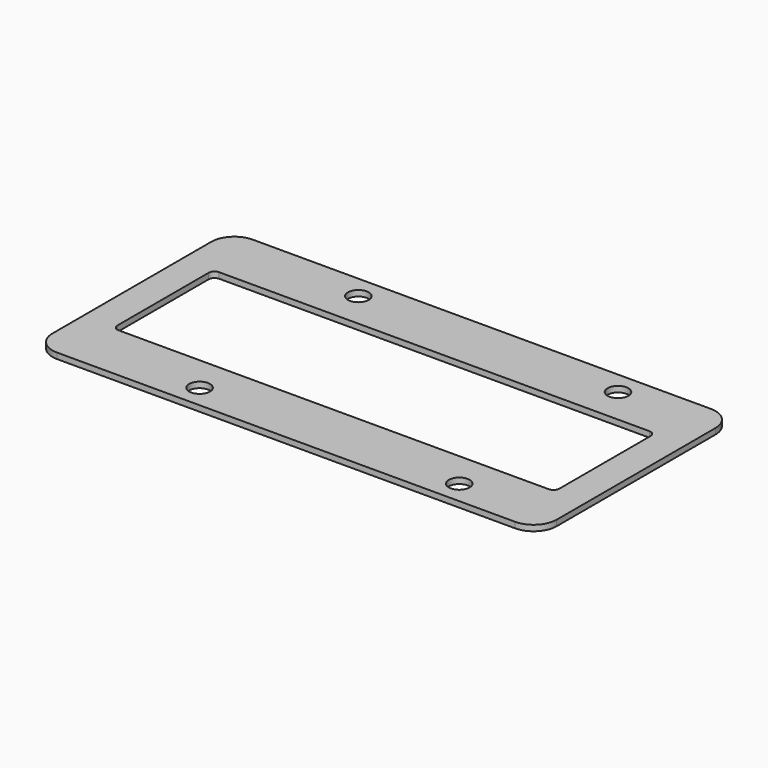
from build123d import *

# Parameters (mm, degrees)
SKETCH_W    = 87.4
SKETCH_H    = 42.4
SKETCH_R    = 1.8
SKETCH_W_2  = 76.6
SKETCH_H_2  = 21.8
PAD_DEPTH   = 1
FILLET_R    = 4
FILLET001_R = 1


with BuildPart() as part:
    # Sketch → Pad (new body)
    with BuildSketch(Plane.XY):
        Rectangle(SKETCH_W, SKETCH_H)
        with Locations((-18.2, 17.2)):
            Circle(SKETCH_R, mode=Mode.SUBTRACT)
        with Locations((-18.2, -17.2)):
            Circle(SKETCH_R, mode=Mode.SUBTRACT)
        with Locations((26.8, -17.2)):
            Circle(SKETCH_R, mode=Mode.SUBTRACT)
        with Locations((26.8, 17.2)):
            Circle(SKETCH_R, mode=Mode.SUBTRACT)
        Rectangle(SKETCH_W_2, SKETCH_H_2, mode=Mode.SUBTRACT)
    extrude(amount=PAD_DEPTH)

    # Fillet
    fillet_edges = [part.edges().sort_by_distance(p)[0] for p in [
        (43.7, -21.2, 0.5),
        (-43.7, -21.2, 0.5),
        (43.7, 21.2, 0.5),
        (-43.7, 21.2, 0.5),
    ]]
    fillet(fillet_edges, radius=FILLET_R)

    # Fillet001
    fillet001_edges = [part.edges().sort_by_distance(p)[0] for p in [
        (38.3, 10.9, 0.5),
        (38.3, -10.9, 0.5),
        (-38.3, -10.9, 0.5),
        (-38.3, 10.9, 0.5),
    ]]
    fillet(fillet001_edges, radius=FILLET001_R)


solid = part.part
